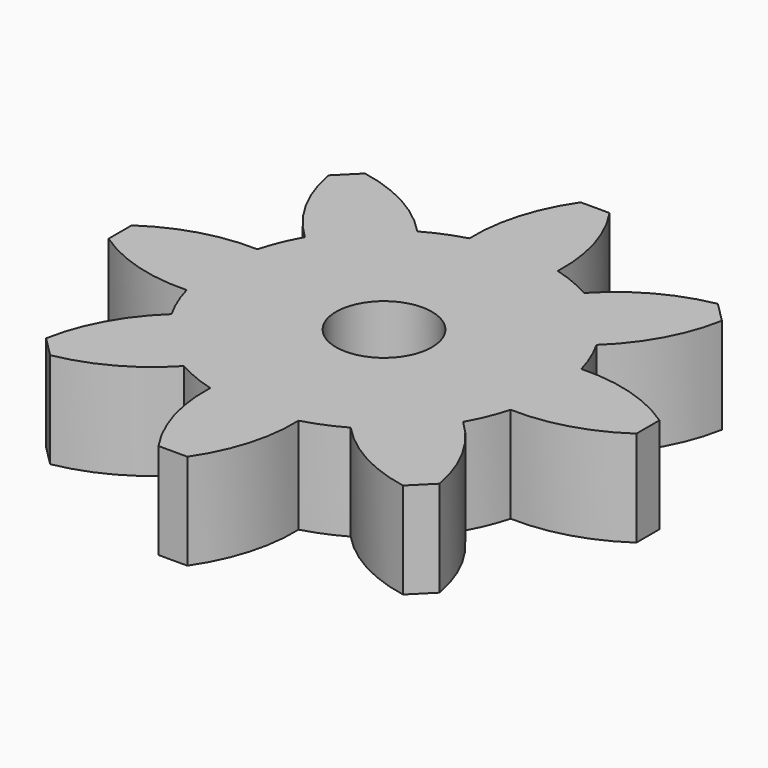
from build123d import *

# Parameters (mm, degrees)
F1_DEPTH = 2
F2_R     = 1
F3_DEPTH = 2.001


with BuildPart() as f1:
    # F0 (on Top) → F1 (new body)
    with BuildSketch(Plane.XY):
        with BuildLine():
            ThreePointArc((3.376751, -0.920626), (3.469051, -0.46442), (3.5, 0))
            ThreePointArc((3.5, 0), (3.469051, 0.46442), (3.376751, 0.920626))
            ThreePointArc((3.376751, 0.920626), (3.233578, 1.339392), (3.038705, 1.736742))
            ThreePointArc((3.038705, 1.736742), (2.474874, 2.474874), (1.736742, 3.038705))
            ThreePointArc((1.736742, 3.038705), (1.339392, 3.233578), (0.920626, 3.376751))
            ThreePointArc((0.920626, 3.376751), (0, 3.5), (-0.920626, 3.376751))
            ThreePointArc((-0.920626, 3.376751), (-1.339392, 3.233578), (-1.736742, 3.038705))
            ThreePointArc((-1.736742, 3.038705), (-2.474874, 2.474874), (-3.038705, 1.736742))
            ThreePointArc((-3.038705, 1.736742), (-3.233578, 1.339392), (-3.376751, 0.920626))
            ThreePointArc((-3.376751, 0.920626), (-3.5, 0), (-3.376751, -0.920626))
            ThreePointArc((-3.376751, -0.920626), (-3.233578, -1.339392), (-3.038705, -1.736742))
            ThreePointArc((-3.038705, -1.736742), (-2.474874, -2.474874), (-1.736742, -3.038705))
            ThreePointArc((-1.736742, -3.038705), (-1.339392, -3.233578), (-0.920626, -3.376751))
            ThreePointArc((-0.920626, -3.376751), (0, -3.5), (0.920626, -3.376751))
            ThreePointArc((0.920626, -3.376751), (1.339392, -3.233578), (1.736742, -3.038705))
            ThreePointArc((1.736742, -3.038705), (2.474874, -2.474874), (3.038705, -1.736742))
            ThreePointArc((3.038705, -1.736742), (3.233578, -1.339392), (3.376751, -0.920626))
        make_face()
        with BuildLine():
            ThreePointArc((3.376751, 0.920626), (3.469051, 0.46442), (3.5, 0))
            ThreePointArc((3.5, 0), (3.469051, -0.46442), (3.376751, -0.920626))
            ThreePointArc((3.376751, -0.920626), (4.488354, -0.781295), (5.5, -0.3))
            Line((5.5, -0.3), (5.5, 0))
            Line((5.5, 0), (5.5, 0.3))
            ThreePointArc((5.5, 0.3), (4.488354, 0.781295), (3.376751, 0.920626))
        make_face()
        with BuildLine():
            ThreePointArc((1.736742, 3.038705), (2.474874, 2.474874), (3.038705, 1.736742))
            ThreePointArc((3.038705, 1.736742), (3.726204, 2.621286), (4.101219, 3.676955))
            Line((4.101219, 3.676955), (3.889087, 3.889087))
            Line((3.889087, 3.889087), (3.676955, 4.101219))
            ThreePointArc((3.676955, 4.101219), (2.621286, 3.726204), (1.736742, 3.038705))
        make_face()
        with BuildLine():
            ThreePointArc((4.101219, -3.676955), (3.726204, -2.621286), (3.038705, -1.736742))
            ThreePointArc((3.038705, -1.736742), (2.474874, -2.474874), (1.736742, -3.038705))
            ThreePointArc((1.736742, -3.038705), (2.621286, -3.726204), (3.676955, -4.101219))
            Line((3.676955, -4.101219), (3.889087, -3.889087))
            Line((3.889087, -3.889087), (4.101219, -3.676955))
        make_face()
        with BuildLine():
            ThreePointArc((-0.920626, 3.376751), (0, 3.5), (0.920626, 3.376751))
            ThreePointArc((0.920626, 3.376751), (0.781295, 4.488354), (0.3, 5.5))
            Line((0.3, 5.5), (0, 5.5))
            Line((0, 5.5), (-0.3, 5.5))
            ThreePointArc((-0.3, 5.5), (-0.781295, 4.488354), (-0.920626, 3.376751))
        make_face()
        with BuildLine():
            ThreePointArc((0.3, -5.5), (0.781295, -4.488354), (0.920626, -3.376751))
            ThreePointArc((0.920626, -3.376751), (0, -3.5), (-0.920626, -3.376751))
            ThreePointArc((-0.920626, -3.376751), (-0.781295, -4.488354), (-0.3, -5.5))
            Line((-0.3, -5.5), (0, -5.5))
            Line((0, -5.5), (0.3, -5.5))
        make_face()
        with BuildLine():
            ThreePointArc((-3.038705, 1.736742), (-2.474874, 2.474874), (-1.736742, 3.038705))
            ThreePointArc((-1.736742, 3.038705), (-2.621286, 3.726204), (-3.676955, 4.101219))
            Line((-3.676955, 4.101219), (-3.889087, 3.889087))
            Line((-3.889087, 3.889087), (-4.101219, 3.676955))
            ThreePointArc((-4.101219, 3.676955), (-3.726204, 2.621286), (-3.038705, 1.736742))
        make_face()
        with BuildLine():
            ThreePointArc((-3.676955, -4.101219), (-2.621286, -3.726204), (-1.736742, -3.038705))
            ThreePointArc((-1.736742, -3.038705), (-2.474874, -2.474874), (-3.038705, -1.736742))
            ThreePointArc((-3.038705, -1.736742), (-3.726204, -2.621286), (-4.101219, -3.676955))
            Line((-4.101219, -3.676955), (-3.889087, -3.889087))
            Line((-3.889087, -3.889087), (-3.676955, -4.101219))
        make_face()
        with BuildLine():
            ThreePointArc((-3.376751, -0.920626), (-3.5, 0), (-3.376751, 0.920626))
            ThreePointArc((-3.376751, 0.920626), (-4.488354, 0.781295), (-5.5, 0.3))
            Line((-5.5, 0.3), (-5.5, 0))
            Line((-5.5, 0), (-5.5, -0.3))
            ThreePointArc((-5.5, -0.3), (-4.488354, -0.781295), (-3.376751, -0.920626))
        make_face()
    extrude(amount=F1_DEPTH)

    # F2 (on face) → F3 (cut, through all)
    with BuildSketch(Plane.XY.offset(2)):
        Circle(F2_R)
    extrude(amount=-F3_DEPTH, mode=Mode.SUBTRACT)


solid = f1.part
